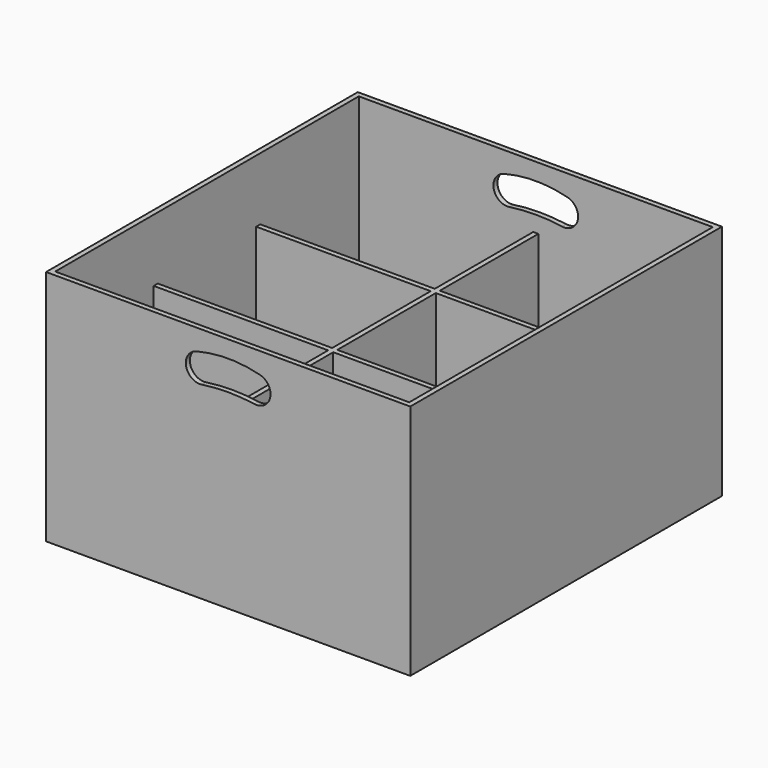
from build123d import *

# Parameters (mm, degrees)
F0_W     = 430
F0_H     = 460
F1_DEPTH = 280
F2_T     = -6
F4_DEPTH = 460.001
F5_W     = 206
F5_H     = 6
F6_DEPTH = 200


with BuildPart() as f1:
    # F0 (on Top) → F1 (new body)
    with BuildSketch(Plane.XY):
        Rectangle(F0_W, F0_H)
    extrude(amount=F1_DEPTH)

    # F2
    f2_openings = [f1.faces().sort_by_distance(p)[0] for p in [
        (0, 0, 280),
    ]]
    offset(amount=F2_T, openings=f2_openings)

    # F3 (on face) → F4 (cut, through all)
    with BuildSketch(Plane.XZ.offset(230)):
        with BuildLine():
            ThreePointArc((31.061347, 222.770627), (49.67535, 235.90859), (37.579824, 255.216242))
            ThreePointArc((37.579824, 255.216242), (0, 260), (-37.579824, 255.216242))
            ThreePointArc((-37.579824, 255.216242), (-49.67535, 235.90859), (-31.061347, 222.770627))
            ThreePointArc((-31.061347, 222.770627), (0, 225), (31.061347, 222.770627))
        make_face()
    extrude(amount=-F4_DEPTH, mode=Mode.SUBTRACT)

    # F5 (on face) → F6 (join)
    with BuildSketch(Plane.XY.offset(6)):
        Polygon((3, 78.666667), (3, 224), (-3, 224), (-3, 78.666667), (-3, 72.666667), (-3, -72.666667), (-3, -78.666667), (-3, -224), (3, -224), (3, -78.666667), (3, -72.666667), (3, 72.666667), align=None)
        with Locations((106, 75.666667)):
            Rectangle(F5_W, F5_H)
        with Locations((-106, 75.666667)):
            Rectangle(F5_W, F5_H)
        with Locations((106, -75.666667)):
            Rectangle(F5_W, F5_H)
        with Locations((-106, -75.666667)):
            Rectangle(F5_W, F5_H)
    extrude(amount=F6_DEPTH)


solid = f1.part
